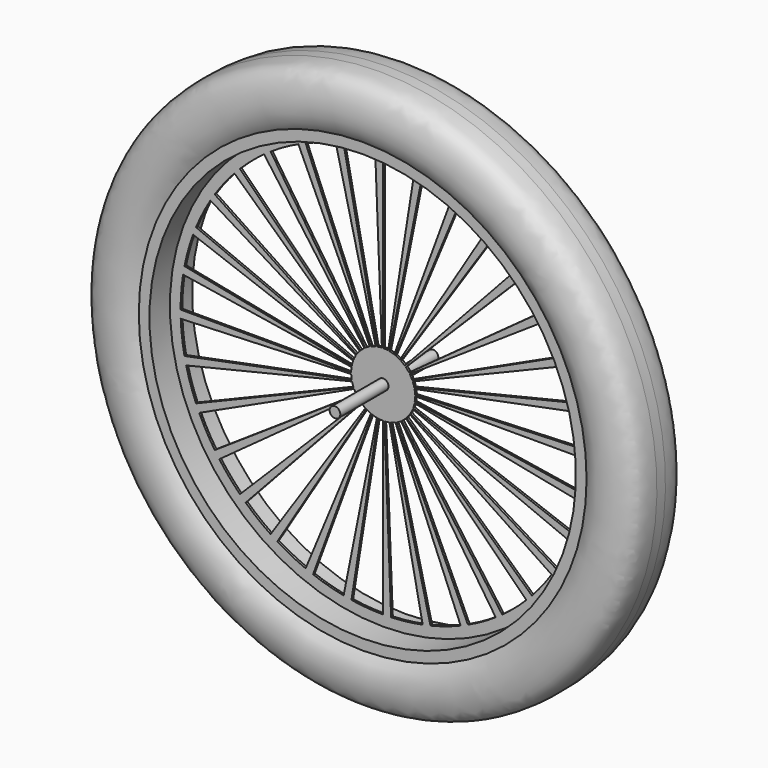
from build123d import *

# Parameters (mm, degrees)
F3_DEPTH = 10


with BuildPart() as f1:
    # F0 (on Right) → F1 (revolve)
    with BuildSketch(Plane.YZ):
        with BuildLine():
            Line((-25, 200), (-1, 200))
            Line((-1, 200), (-1, 5))
            Line((-1, 5), (-57.5, 5))
            Line((-57.5, 5), (-57.5, 0))
            Line((-57.5, 0), (0, 0))
            Line((0, 0), (57.5, 0))
            Line((57.5, 0), (57.5, 5))
            Line((57.5, 5), (1, 5))
            Line((1, 5), (1, 200))
            Line((1, 200), (25, 200))
            Line((25, 200), (25, 210))
            add(Edge.make_bspline(
                [(5, 260), (14.4691513851, 259.7929239273), (28.9102213772, 257.5213293499), (34.4464546168, 227.2278870991), (28.855293881, 214.4344179728), (25, 210)],
                knots=[0, 0, 0, 0, 0.3296658948, 0.6914650989, 1, 1, 1, 1], degree=3))
            Line((5, 260), (0, 260))
            Line((0, 260), (-5, 260))
            add(Edge.make_bspline(
                [(-5, 260), (-14.4691513851, 259.7929239273), (-28.9102213772, 257.5213293499), (-34.4464546168, 227.2278870991), (-28.855293881, 214.4344179728), (-25, 210)],
                knots=[0, 0, 0, 0, 0.3296658948, 0.6914650989, 1, 1, 1, 1], degree=3))
            Line((-25, 210), (-25, 200))
        make_face()
    revolve(axis=Axis((0, -28.75, 0), (0, -1, 0)))

    # F2 (on face) → F3 (cut)
    with BuildSketch(Plane.XZ.offset(1)):
        with BuildLine():
            Line((0, 190), (0, 30))
            ThreePointArc((0, 30), (2.3537728718, 29.907520012), (4.6930339512, 29.6306502179))
            Line((4.6930339512, 29.6306502179), (29.7225483576, 187.6607847131))
            ThreePointArc((29.7225483576, 187.6607847131), (14.9072281883, 189.4142934093), (0, 190))
        make_face()
        with BuildLine():
            Line((-37.0671611831, 186.3492032766), (-5.8527096605, 29.4235584121))
            ThreePointArc((-5.8527096605, 29.4235584121), (-3.5261219237, 29.7920537086), (-1.1777944728, 29.9768710872))
            Line((-1.1777944728, 29.9768710872), (-7.4593649942, 189.8535168857))
            ThreePointArc((-7.4593649942, 189.8535168857), (-22.332105517, 188.6830068214), (-37.0671611831, 186.3492032766))
        make_face()
        with BuildLine():
            Line((-72.7098521494, 175.5371111771), (-11.480502971, 27.7163859753))
            ThreePointArc((-11.480502971, 27.7163859753), (-9.2705098312, 28.5316954889), (-7.0033609157, 29.1710976119))
            Line((-7.0033609157, 29.1710976119), (-44.3546191326, 184.7502848756))
            ThreePointArc((-44.3546191326, 184.7502848756), (-58.7132289312, 180.7007380961), (-72.7098521494, 175.5371111771))
        make_face()
        with BuildLine():
            Line((-105.5583442737, 157.9792263375), (-16.6671069906, 24.9440883691))
            ThreePointArc((-16.6671069906, 24.9440883691), (-14.6586372449, 26.1748802122), (-12.5597921261, 27.2442952148))
            Line((-12.5597921261, 27.2442952148), (-79.5453501321, 172.5472030268))
            ThreePointArc((-79.5453501321, 172.5472030268), (-92.8380358844, 165.7742413438), (-105.5583442737, 157.9792263375))
        make_face()
        with BuildLine():
            Line((-134.3502884254, 134.3502884254), (-21.2132034356, 21.2132034356))
            ThreePointArc((-21.2132034356, 21.2132034356), (-19.4834414499, 22.812178968), (-17.6335575688, 24.2705098312))
            Line((-17.6335575688, 24.2705098312), (-111.6791979356, 153.7132289312))
            ThreePointArc((-111.6791979356, 153.7132289312), (-123.3951291827, 144.477133464), (-134.3502884254, 134.3502884254))
        make_face()
        with BuildLine():
            Line((-157.9792263375, 105.5583442737), (-24.9440883691, 16.6671069906))
            ThreePointArc((-24.9440883691, 16.6671069906), (-23.5595079264, 18.5728184793), (-22.0296752831, 20.364022366))
            Line((-22.0296752831, 20.364022366), (-139.5212767928, 128.9721416513))
            ThreePointArc((-139.5212767928, 128.9721416513), (-149.2102168673, 117.6278503689), (-157.9792263375, 105.5583442737))
        make_face()
        with BuildLine():
            Line((-175.5371111771, 72.7098521494), (-27.7163859753, 11.480502971))
            ThreePointArc((-27.7163859753, 11.480502971), (-26.7301957257, 13.6197149922), (-25.5792049306, 15.6749569415))
            Line((-25.5792049306, 15.6749569415), (-162.0016312273, 99.274727296))
            ThreePointArc((-162.0016312273, 99.274727296), (-169.2912395958, 86.2581949505), (-175.5371111771, 72.7098521494))
        make_face()
        with BuildLine():
            Line((-186.3492032766, 37.0671611831), (-29.4235584121, 5.8527096605))
            ThreePointArc((-29.4235584121, 5.8527096605), (-28.8736570936, 8.143213496), (-28.1457400777, 10.3835117123))
            Line((-28.1457400777, 10.3835117123), (-178.2563538253, 65.7622408447))
            ThreePointArc((-178.2563538253, 65.7622408447), (-182.8664949262, 51.5736854744), (-186.3492032766, 37.0671611831))
        make_face()
        with BuildLine():
            Line((-190, 0), (-30, 0))
            ThreePointArc((-30, 0), (-29.907520012, 2.3537728718), (-29.6306502179, 4.6930339512))
            Line((-29.6306502179, 4.6930339512), (-187.6607847131, 29.7225483576))
            ThreePointArc((-187.6607847131, 29.7225483576), (-189.4142934093, 14.9072281883), (-190, 0))
        make_face()
        with BuildLine():
            Line((-186.3492032766, -37.0671611831), (-29.4235584121, -5.8527096605))
            ThreePointArc((-29.4235584121, -5.8527096605), (-29.7920537086, -3.5261219237), (-29.9768710872, -1.1777944728))
            Line((-29.9768710872, -1.1777944728), (-189.8535168857, -7.4593649942))
            ThreePointArc((-189.8535168857, -7.4593649942), (-188.6830068214, -22.332105517), (-186.3492032766, -37.0671611831))
        make_face()
        with BuildLine():
            Line((-175.5371111771, -72.7098521494), (-27.7163859753, -11.480502971))
            ThreePointArc((-27.7163859753, -11.480502971), (-28.5316954889, -9.2705098312), (-29.1710976119, -7.0033609157))
            Line((-29.1710976119, -7.0033609157), (-184.7502848756, -44.3546191326))
            ThreePointArc((-184.7502848756, -44.3546191326), (-180.7007380961, -58.7132289312), (-175.5371111771, -72.7098521494))
        make_face()
        with BuildLine():
            Line((-157.9792263375, -105.5583442737), (-24.9440883691, -16.6671069906))
            ThreePointArc((-24.9440883691, -16.6671069906), (-26.1748802122, -14.6586372449), (-27.2442952148, -12.5597921261))
            Line((-27.2442952148, -12.5597921261), (-172.5472030268, -79.5453501321))
            ThreePointArc((-172.5472030268, -79.5453501321), (-165.7742413438, -92.8380358844), (-157.9792263375, -105.5583442737))
        make_face()
        with BuildLine():
            Line((-134.3502884254, -134.3502884254), (-21.2132034356, -21.2132034356))
            ThreePointArc((-21.2132034356, -21.2132034356), (-22.812178968, -19.4834414499), (-24.2705098312, -17.6335575688))
            Line((-24.2705098312, -17.6335575688), (-153.7132289312, -111.6791979356))
            ThreePointArc((-153.7132289312, -111.6791979356), (-144.477133464, -123.3951291827), (-134.3502884254, -134.3502884254))
        make_face()
        with BuildLine():
            Line((-105.5583442737, -157.9792263375), (-16.6671069906, -24.9440883691))
            ThreePointArc((-16.6671069906, -24.9440883691), (-18.5728184793, -23.5595079264), (-20.364022366, -22.0296752831))
            Line((-20.364022366, -22.0296752831), (-128.9721416513, -139.5212767928))
            ThreePointArc((-128.9721416513, -139.5212767928), (-117.6278503689, -149.2102168673), (-105.5583442737, -157.9792263375))
        make_face()
        with BuildLine():
            Line((-72.7098521494, -175.5371111771), (-11.480502971, -27.7163859753))
            ThreePointArc((-11.480502971, -27.7163859753), (-13.6197149922, -26.7301957257), (-15.6749569415, -25.5792049306))
            Line((-15.6749569415, -25.5792049306), (-99.274727296, -162.0016312273))
            ThreePointArc((-99.274727296, -162.0016312273), (-86.2581949505, -169.2912395958), (-72.7098521494, -175.5371111771))
        make_face()
        with BuildLine():
            Line((-37.0671611831, -186.3492032766), (-5.8527096605, -29.4235584121))
            ThreePointArc((-5.8527096605, -29.4235584121), (-8.143213496, -28.8736570936), (-10.3835117123, -28.1457400777))
            Line((-10.3835117123, -28.1457400777), (-65.7622408447, -178.2563538253))
            ThreePointArc((-65.7622408447, -178.2563538253), (-51.5736854744, -182.8664949262), (-37.0671611831, -186.3492032766))
        make_face()
        with BuildLine():
            Line((0, -190), (0, -30))
            ThreePointArc((0, -30), (-2.3537728718, -29.907520012), (-4.6930339512, -29.6306502179))
            Line((-4.6930339512, -29.6306502179), (-29.7225483576, -187.6607847131))
            ThreePointArc((-29.7225483576, -187.6607847131), (-14.9072281883, -189.4142934093), (0, -190))
        make_face()
        with BuildLine():
            Line((37.0671611831, -186.3492032766), (5.8527096605, -29.4235584121))
            ThreePointArc((5.8527096605, -29.4235584121), (3.5261219237, -29.7920537086), (1.1777944728, -29.9768710872))
            Line((1.1777944728, -29.9768710872), (7.4593649942, -189.8535168857))
            ThreePointArc((7.4593649942, -189.8535168857), (22.332105517, -188.6830068214), (37.0671611831, -186.3492032766))
        make_face()
        with BuildLine():
            Line((72.7098521494, -175.5371111771), (11.480502971, -27.7163859753))
            ThreePointArc((11.480502971, -27.7163859753), (9.2705098312, -28.5316954889), (7.0033609157, -29.1710976119))
            Line((7.0033609157, -29.1710976119), (44.3546191326, -184.7502848756))
            ThreePointArc((44.3546191326, -184.7502848756), (58.7132289312, -180.7007380961), (72.7098521494, -175.5371111771))
        make_face()
        with BuildLine():
            Line((105.5583442737, -157.9792263375), (16.6671069906, -24.9440883691))
            ThreePointArc((16.6671069906, -24.9440883691), (14.6586372449, -26.1748802122), (12.5597921261, -27.2442952148))
            Line((12.5597921261, -27.2442952148), (79.5453501321, -172.5472030268))
            ThreePointArc((79.5453501321, -172.5472030268), (92.8380358844, -165.7742413438), (105.5583442737, -157.9792263375))
        make_face()
        with BuildLine():
            Line((134.3502884254, -134.3502884254), (21.2132034356, -21.2132034356))
            ThreePointArc((21.2132034356, -21.2132034356), (19.4834414499, -22.812178968), (17.6335575688, -24.2705098312))
            Line((17.6335575688, -24.2705098312), (111.6791979356, -153.7132289312))
            ThreePointArc((111.6791979356, -153.7132289312), (123.3951291827, -144.477133464), (134.3502884254, -134.3502884254))
        make_face()
        with BuildLine():
            Line((157.9792263375, -105.5583442737), (24.9440883691, -16.6671069906))
            ThreePointArc((24.9440883691, -16.6671069906), (23.5595079264, -18.5728184793), (22.0296752831, -20.364022366))
            Line((22.0296752831, -20.364022366), (139.5212767928, -128.9721416513))
            ThreePointArc((139.5212767928, -128.9721416513), (149.2102168673, -117.6278503689), (157.9792263375, -105.5583442737))
        make_face()
        with BuildLine():
            Line((175.5371111771, -72.7098521494), (27.7163859753, -11.480502971))
            ThreePointArc((27.7163859753, -11.480502971), (26.7301957257, -13.6197149922), (25.5792049306, -15.6749569415))
            Line((25.5792049306, -15.6749569415), (162.0016312273, -99.274727296))
            ThreePointArc((162.0016312273, -99.274727296), (169.2912395958, -86.2581949505), (175.5371111771, -72.7098521494))
        make_face()
        with BuildLine():
            Line((186.3492032766, -37.0671611831), (29.4235584121, -5.8527096605))
            ThreePointArc((29.4235584121, -5.8527096605), (28.8736570936, -8.143213496), (28.1457400777, -10.3835117123))
            Line((28.1457400777, -10.3835117123), (178.2563538253, -65.7622408447))
            ThreePointArc((178.2563538253, -65.7622408447), (182.8664949262, -51.5736854744), (186.3492032766, -37.0671611831))
        make_face()
        with BuildLine():
            Line((190, 0), (30, 0))
            ThreePointArc((30, 0), (29.907520012, -2.3537728718), (29.6306502179, -4.6930339512))
            Line((29.6306502179, -4.6930339512), (187.6607847131, -29.7225483576))
            ThreePointArc((187.6607847131, -29.7225483576), (189.4142934093, -14.9072281883), (190, 0))
        make_face()
        with BuildLine():
            Line((186.3492032766, 37.0671611831), (29.4235584121, 5.8527096605))
            ThreePointArc((29.4235584121, 5.8527096605), (29.7920537086, 3.5261219237), (29.9768710872, 1.1777944728))
            Line((29.9768710872, 1.1777944728), (189.8535168857, 7.4593649942))
            ThreePointArc((189.8535168857, 7.4593649942), (188.6830068214, 22.332105517), (186.3492032766, 37.0671611831))
        make_face()
        with BuildLine():
            Line((175.5371111771, 72.7098521494), (27.7163859753, 11.480502971))
            ThreePointArc((27.7163859753, 11.480502971), (28.5316954889, 9.2705098312), (29.1710976119, 7.0033609157))
            Line((29.1710976119, 7.0033609157), (184.7502848756, 44.3546191326))
            ThreePointArc((184.7502848756, 44.3546191326), (180.7007380961, 58.7132289312), (175.5371111771, 72.7098521494))
        make_face()
        with BuildLine():
            Line((157.9792263375, 105.5583442737), (24.9440883691, 16.6671069906))
            ThreePointArc((24.9440883691, 16.6671069906), (26.1748802122, 14.6586372449), (27.2442952148, 12.5597921261))
            Line((27.2442952148, 12.5597921261), (172.5472030268, 79.5453501321))
            ThreePointArc((172.5472030268, 79.5453501321), (165.7742413438, 92.8380358844), (157.9792263375, 105.5583442737))
        make_face()
        with BuildLine():
            Line((134.3502884254, 134.3502884254), (21.2132034356, 21.2132034356))
            ThreePointArc((21.2132034356, 21.2132034356), (22.812178968, 19.4834414499), (24.2705098312, 17.6335575688))
            Line((24.2705098312, 17.6335575688), (153.7132289312, 111.6791979356))
            ThreePointArc((153.7132289312, 111.6791979356), (144.477133464, 123.3951291827), (134.3502884254, 134.3502884254))
        make_face()
        with BuildLine():
            Line((105.5583442737, 157.9792263375), (16.6671069906, 24.9440883691))
            ThreePointArc((16.6671069906, 24.9440883691), (18.5728184793, 23.5595079264), (20.364022366, 22.0296752831))
            Line((20.364022366, 22.0296752831), (128.9721416513, 139.5212767928))
            ThreePointArc((128.9721416513, 139.5212767928), (117.6278503689, 149.2102168673), (105.5583442737, 157.9792263375))
        make_face()
        with BuildLine():
            Line((72.7098521494, 175.5371111771), (11.480502971, 27.7163859753))
            ThreePointArc((11.480502971, 27.7163859753), (13.6197149922, 26.7301957257), (15.6749569415, 25.5792049306))
            Line((15.6749569415, 25.5792049306), (99.274727296, 162.0016312273))
            ThreePointArc((99.274727296, 162.0016312273), (86.2581949505, 169.2912395958), (72.7098521494, 175.5371111771))
        make_face()
        with BuildLine():
            Line((37.0671611831, 186.3492032766), (5.8527096605, 29.4235584121))
            ThreePointArc((5.8527096605, 29.4235584121), (8.143213496, 28.8736570936), (10.3835117123, 28.1457400777))
            Line((10.3835117123, 28.1457400777), (65.7622408447, 178.2563538253))
            ThreePointArc((65.7622408447, 178.2563538253), (51.5736854744, 182.8664949262), (37.0671611831, 186.3492032766))
        make_face()
    extrude(amount=-F3_DEPTH, mode=Mode.SUBTRACT)


solid = f1.part
